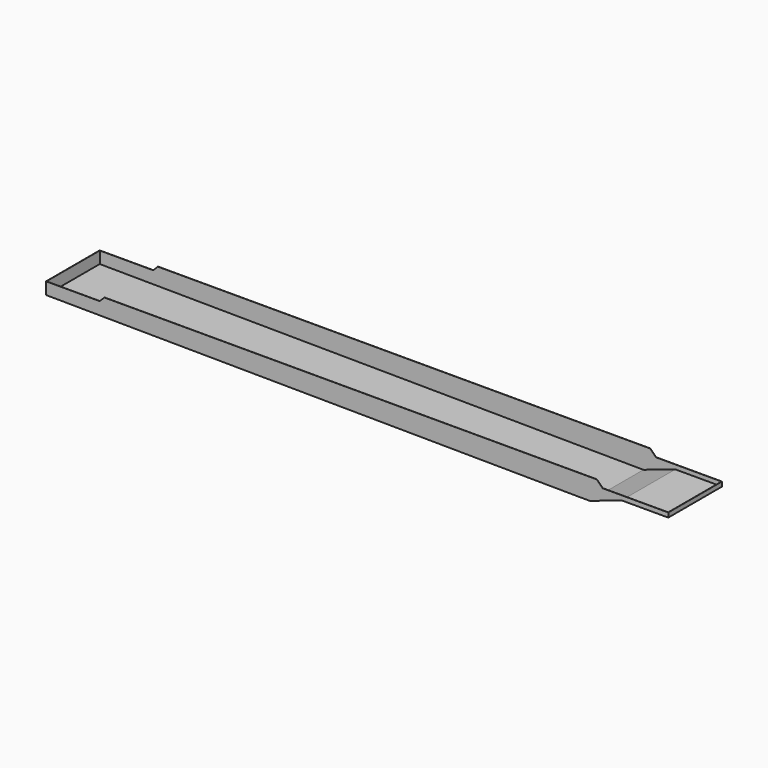
from build123d import *

# Parameters (mm, degrees)
EXTRUDE034_DEPTH = 552
EXTRUDE015_DEPTH = 555


with BuildPart() as extrude034:
    # Sketch035 → Extrude034 (new body, symmetric)
    with BuildSketch(Plane.XZ):
        Polygon((-522, -60), (-522, -450), (8477, -521.999457), (9005, -344), (9772, -344), (9772, -60), align=None)
    extrude(amount=EXTRUDE034_DEPTH, both=True)


with BuildPart() as cut003:
    # Sketch023 → Extrude015 (new body, symmetric)
    with BuildSketch(Plane.XZ):
        Polygon((-525, -253), (362, -253), (440, -175), (8590.5, -175), (8687.5, -272), (9775, -272), (9775, -347), (9005, -347), (8477, -525), (8327, -525), (-525, -453), align=None)
    extrude(amount=EXTRUDE015_DEPTH, both=True)

    # Cut003: cut Extrude034
    add(extrude034.part, mode=Mode.SUBTRACT)


solid = cut003.part
